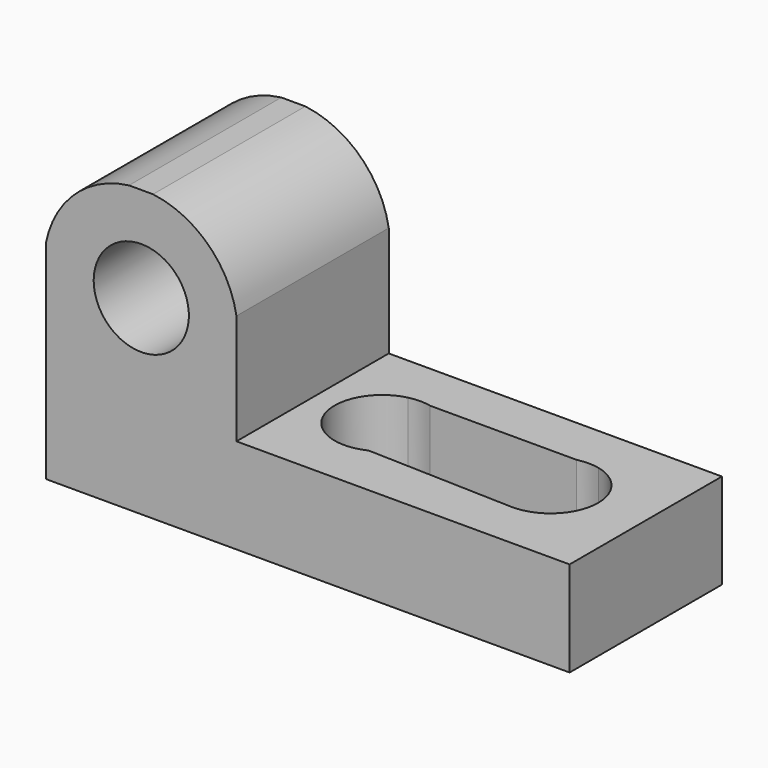
from build123d import *

# Parameters (mm, degrees)
F1_DEPTH = 25.4
F3_DEPTH = 25.401
F5_DEPTH = 25.401
F7_DEPTH = 12.701


with BuildPart() as f1:
    # F0 (on Front) → F1 (new body)
    with BuildSketch(Plane.XZ):
        Polygon((25.4, 38.1), (0, 38.1), (0, 0), (69.85, 0), (69.85, 12.7), (25.4, 12.7), align=None)
    extrude(amount=F1_DEPTH)

    # F2 (on face) → F3 (cut, through all)
    with BuildSketch(Plane.XZ.offset(25.4)):
        with BuildLine():
            Line((6.35, 25.4), (19.05, 25.4))
            ThreePointArc((19.05, 25.4), (12.7, 31.75), (6.35, 25.4))
        make_face()
        with BuildLine():
            ThreePointArc((6.35, 25.4), (12.7, 19.05), (19.05, 25.4))
            Line((19.05, 25.4), (6.35, 25.4))
        make_face()
    extrude(amount=-F3_DEPTH, mode=Mode.SUBTRACT)

    # F4 (on face) → F5 (cut, through all)
    with BuildSketch(Plane.XZ.offset(25.4)):
        with BuildLine():
            ThreePointArc((0, 27.8021660134), (3.867394622, 34.7385435521), (11.0625794751, 38.1))
            Line((11.0625794751, 38.1), (0, 38.1))
            Line((0, 38.1), (0, 27.8021660134))
        make_face()
        with BuildLine():
            ThreePointArc((14.2694085859, 38.1), (21.6015748331, 34.6091533391), (25.4, 27.4315048009))
            Line((25.4, 27.4315048009), (25.4, 38.1))
            Line((25.4, 38.1), (14.2694085859, 38.1))
        make_face()
    extrude(amount=-F5_DEPTH, mode=Mode.SUBTRACT)

    # F6 (on face) → F7 (cut, through all)
    with BuildSketch(Plane.XY.offset(12.7)):
        with BuildLine():
            ThreePointArc((56.9451018092, -19.0466933699), (61.5670916047, -17.26199537), (63.5, -12.7))
            ThreePointArc((63.5, -12.7), (62.1319623553, -8.7626720876), (58.6173067433, -6.5218521448))
            Line((58.6173067433, -6.5218521448), (55.6826932567, -6.5218521448))
            ThreePointArc((55.6826932567, -6.5218521448), (50.8320114543, -13.3368051005), (56.9451018092, -19.0466933699))
        make_face()
        with BuildLine():
            Line((55.6826932567, -6.5218521448), (58.6173067433, -6.5218521448))
            ThreePointArc((58.6173067433, -6.5218521448), (57.15, -6.35), (55.6826932567, -6.5218521448))
        make_face()
        with BuildLine():
            Line((37.4478836052, -18.4172404403), (56.9451018092, -19.0466933699))
            ThreePointArc((56.9451018092, -19.0466933699), (50.8320114543, -13.3368051005), (55.6826932567, -6.5218521448))
            Line((55.6826932567, -6.5218521448), (36.1519202299, -6.5218521448))
            ThreePointArc((36.1519202299, -6.5218521448), (39.6665758419, -8.7626720876), (41.0346134866, -12.7))
            ThreePointArc((41.0346134866, -12.7), (40.0637056615, -16.074591438), (37.4478836052, -18.4172404403))
        make_face()
        with BuildLine():
            Line((31.5583283297, -18.2271006068), (37.4478836052, -18.4172404403))
            ThreePointArc((37.4478836052, -18.4172404403), (40.0637056615, -16.074591438), (41.0346134866, -12.7))
            ThreePointArc((41.0346134866, -12.7), (39.6665758419, -8.7626720876), (36.1519202299, -6.5218521448))
            Line((36.1519202299, -6.5218521448), (33.2173067433, -6.5218521448))
            ThreePointArc((33.2173067433, -6.5218521448), (28.3974454416, -11.8089231379), (31.5583283297, -18.2271006068))
        make_face()
        with BuildLine():
            ThreePointArc((31.5583283297, -18.2271006068), (34.4797152958, -19.0466933699), (37.4478836052, -18.4172404403))
            Line((37.4478836052, -18.4172404403), (31.5583283297, -18.2271006068))
        make_face()
        with BuildLine():
            Line((33.2173067433, -6.5218521448), (36.1519202299, -6.5218521448))
            ThreePointArc((36.1519202299, -6.5218521448), (34.6846134866, -6.35), (33.2173067433, -6.5218521448))
        make_face()
    extrude(amount=-F7_DEPTH, mode=Mode.SUBTRACT)


solid = f1.part
